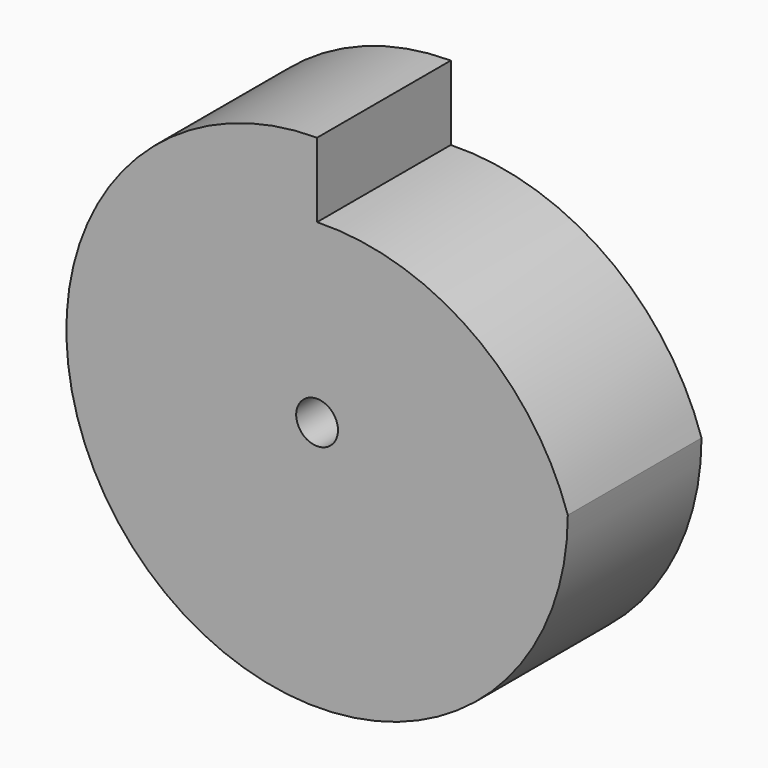
from build123d import *

# Parameters (mm, degrees)
F0_R     = 3.175
F1_DEPTH = 25.4


with BuildPart() as f1:
    # F0 (on Front) → F1 (new body)
    with BuildSketch(Plane.XZ):
        with BuildLine():
            Line((0, 26.801379), (0, 38.1))
            ThreePointArc((0, 38.1), (-26.940768, -26.940768), (38.1, 0))
            ThreePointArc((38.1, 0), (23.501795, 19.729222), (0, 26.801379))
        make_face()
        Circle(F0_R, mode=Mode.SUBTRACT)
    extrude(amount=F1_DEPTH)


solid = f1.part
